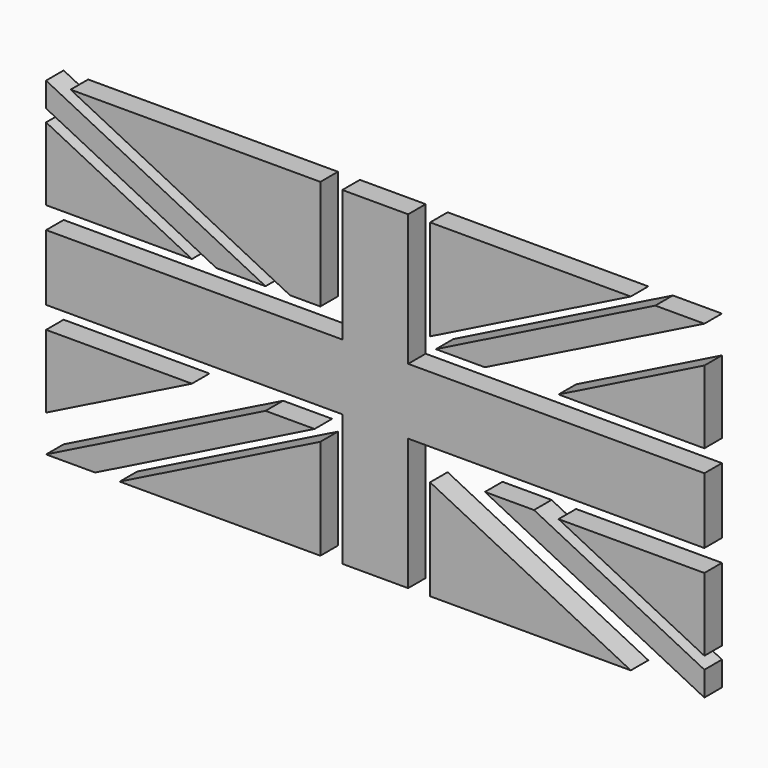
from build123d import *

# Parameters (mm, degrees)
F1_DEPTH = 2


with BuildPart() as f1:
    # F0 (on Front) → F1 (new body)
    with BuildSketch(Plane.XZ):
        Polygon((-10, -5), (-30, -15), (-25.527864, -15), (-5.527864, -5), align=None)
        Polygon((-5, 15), (-27.763932, 15), (-7.763932, 5), (-5, 5), align=None)
        Polygon((-5, -5.854102), (-23.291796, -15), (-5, -15), align=None)
        Polygon((-16.708204, -5), (-30, -5), (-30, -11.645898), align=None)
        Polygon((-30, 11.645898), (-30, 5), (-16.708204, 5), align=None)
        Polygon((-10, 5), (-30, 15), (-30, 12.763932), (-14.472136, 5), align=None)
        Polygon((10, 5), (30, 15), (25.527864, 15), (5.527864, 5), align=None)
        Polygon((16.708204, 5), (30, 5), (30, 11.645898), align=None)
        Polygon((23.291796, 15), (5, 15), (5, 5.854102), align=None)
        Polygon((10, -5), (30, -15), (30, -12.763932), (14.472136, -5), align=None)
        Polygon((3, -3), (30, -3), (30, 3), (3, 3), (3, 15), (-3, 15), (-3, 3), (-30, 3), (-30, -3), (-3, -3), (-3, -15), (3, -15), align=None)
        Polygon((5, -5.854102), (5, -15), (23.291796, -15), align=None)
        Polygon((30, -5), (16.708204, -5), (30, -11.645898), align=None)
        Polygon((3, -3), (30, -3), (30, 3), (3, 3), (3, 15), (-3, 15), (-3, 3), (-30, 3), (-30, -3), (-3, -3), (-3, -15), (3, -15), align=None)
    extrude(amount=F1_DEPTH)


solid = f1.part
